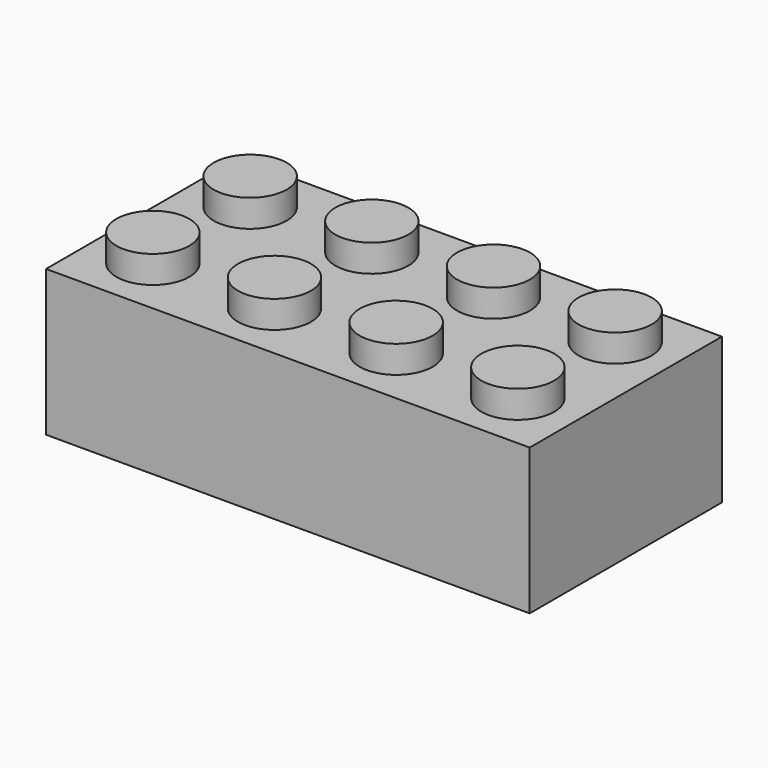
from build123d import *

# Parameters (mm, degrees)
F0_W     = 807.72
F0_H     = 401.32
F1_DEPTH = 243.84
F2_T     = -30.48
F3_R     = 60.96
F4_DEPTH = 45.72
F5_R     = 82.55
F5_R_2   = 60.96
F6_DEPTH = 213.36
F11_R    = 76.2
F12_R    = 76.2


with BuildPart() as f1:
    # F0 (on Top) → F1 (new body)
    with BuildSketch(Plane.XY):
        with Locations((2.2411290556, -51.4143294379)):
            Rectangle(F0_W, F0_H)
    extrude(amount=F1_DEPTH)

    # F2
    f2_openings = [f1.faces().sort_by_distance(p)[0] for p in [
        (2.241129, -51.414329, 0),
    ]]
    offset(amount=F2_T, openings=f2_openings)

    # F3 (on face) → F4 (join)
    with BuildSketch(Plane.XY.offset(243.84)):
        with Locations((-302.5588709444, 50.1856705621)):
            Circle(F3_R)
        with Locations((-302.5588709444, -153.0143294379)):
            Circle(F3_R)
        with Locations((-99.3588709444, 50.1856705621)):
            Circle(F3_R)
        with Locations((-99.3588709444, -153.0143294379)):
            Circle(F3_R)
        with Locations((103.8411290556, 50.1856705621)):
            Circle(F3_R)
        with Locations((103.8411290556, -153.0143294379)):
            Circle(F3_R)
        with Locations((307.0411290556, 50.1856705621)):
            Circle(F3_R)
        with Locations((307.0411290556, -153.0143294379)):
            Circle(F3_R)
    extrude(amount=F4_DEPTH)

    # F5 (on face) → F6 (join)
    with BuildSketch(Plane(origin=(0, 0, 213.36), x_dir=(1, 0, 0), z_dir=(0, 0, -1))):
        with Locations((203.2786133146, 60.3392086923)):
            Circle(F5_R)
        with Locations((203.2786133146, 60.3392086923)):
            Circle(F5_R_2, mode=Mode.SUBTRACT)
        with Locations((1.3486133146, 60.3392086923)):
            Circle(F5_R)
        with Locations((1.3486133146, 60.3392086923)):
            Circle(F5_R_2, mode=Mode.SUBTRACT)
        with Locations((-200.5813866854, 60.3392086923)):
            Circle(F5_R)
        with Locations((-200.5813866854, 60.3392086923)):
            Circle(F5_R_2, mode=Mode.SUBTRACT)
    extrude(amount=F6_DEPTH)


with BuildPart() as f7_1:
    # F7: copy of F1
    add(f1.part.moved(Location((0, 0, 347.98))))


with BuildPart() as f8_1:
    # F8: copy of F7_1
    add(f7_1.part.moved(Location((0, 0, 548.64))))


with BuildPart() as f10:
    # F9 (on Front) → F10 (revolve)
    with BuildSketch(Plane.XZ):
        Polygon((-791.4233886312, -635), (-791.4233886312, 0), (-791.4233886312, 635), (-1174.3252277374, 635), (-840.2198553085, 0), (-1174.3252277374, -635), align=None)
    revolve(axis=Axis((-791.4233886312, 0, 317.5), (0, 0, 1)))

    # F11
    f11_edges = [f10.edges().sort_by_distance(p)[0] for p in [
        (-408.52155, 0, 635),
        (-742.626922, 0, 0),
        (-1007.272542, 0, 317.5),
    ]]
    fillet(f11_edges, radius=F11_R)

    # F12
    f12_edges = [f10.edges().sort_by_distance(p)[0] for p in [
        (-1016.606744, 0, -335.240567),
        (-723.958517, 0, -35.481133),
        (-408.52155, 0, -635),
    ]]
    fillet(f12_edges, radius=F12_R)


solid = f1.part
